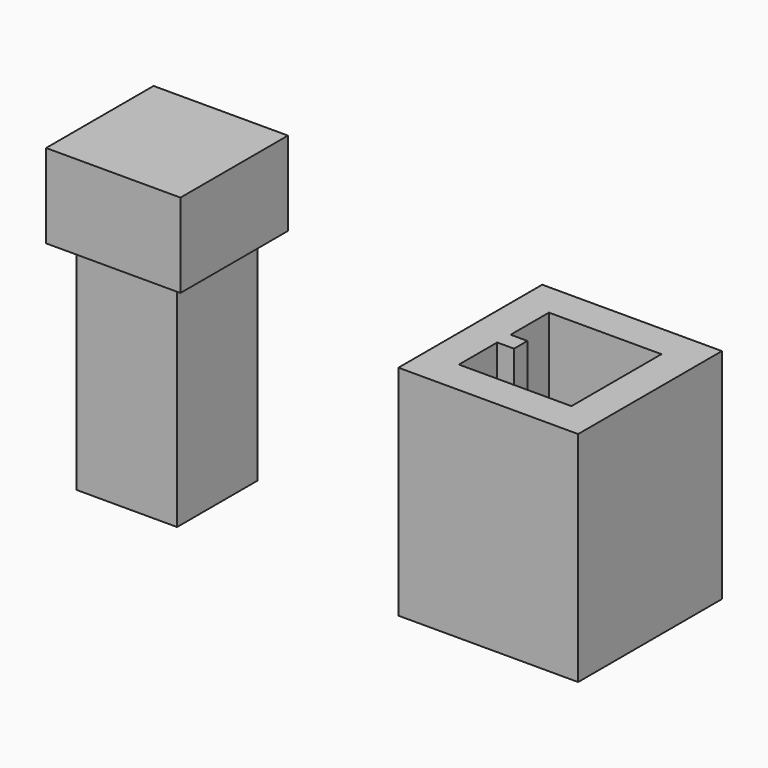
from build123d import *

# Parameters (mm, degrees)
F0_W      = 10.7
F0_H      = 10.7
F1_DEPTH  = 13
F2_T      = -2
F3_DEPTH  = 25
F4_W      = 6
F4_H      = 6
F5_DEPTH  = 13
F6_W      = 8
F6_H      = 8
F6_W_2    = 6
F6_H_2    = 6
F7_DEPTH  = 5
F8_DEPTH  = 5
F9_W      = 1
F9_H      = 13
F10_DEPTH = 1
F11_W     = 1
F11_H     = 7
F12_DEPTH = 1
F13_W     = 1.5
F13_H     = 13
F14_DEPTH = 1.5


with BuildPart() as f1:
    # F0 (on Top) → F1 (new body)
    with BuildSketch(Plane.XY):
        with Locations((-6.6214689702, 2.3361916789)):
            Rectangle(F0_W, F0_H)
    extrude(amount=F1_DEPTH)

    # F2
    f2_openings = [f1.faces().sort_by_distance(p)[0] for p in [
        (-6.621469, 2.336192, 13),
    ]]
    offset(amount=F2_T, openings=f2_openings)

    # F3 (cut): a face of the model
    f3_faces = [f1.faces().sort_by_distance(p)[0] for p in [
        (-6.6214689702, 2.3361916789, 2),
    ]]
    extrude(f3_faces, amount=-F3_DEPTH, mode=Mode.SUBTRACT)

    # F9 (on face) → F10 (join)
    with BuildSketch(Plane.YZ.offset(-9.9714689702)):
        with Locations((2.3361916789, 6.5)):
            Rectangle(F9_W, F9_H)
    extrude(amount=F10_DEPTH)

    # F11 (on face) → F12 (cut)
    with BuildSketch(Plane.YZ.offset(-8.9714689702)):
        with Locations((2.3361916789, 3.5)):
            Rectangle(F11_W, F11_H)
    extrude(amount=-F12_DEPTH, mode=Mode.SUBTRACT)


with BuildPart() as f5:
    # F4 (on Top) → F5 (new body)
    with BuildSketch(Plane.XY):
        with Locations((-28.5814577192, 0.5250083055)):
            Rectangle(F4_W, F4_H)
    extrude(amount=F5_DEPTH)

    # F6 (on face) → F7 (join)
    with BuildSketch(Plane.XY.offset(13)):
        with Locations((-28.5814577192, 0.5250083055)):
            Rectangle(F6_W, F6_H)
        with Locations((-28.5814577192, 0.5250083055)):
            Rectangle(F6_W_2, F6_H_2, mode=Mode.SUBTRACT)
    extrude(amount=F7_DEPTH)

    # F8 (add): a face of the model
    f8_faces = [f5.faces().sort_by_distance(p)[0] for p in [
        (-28.5814577192, 0.5250083055, 13),
    ]]
    extrude(f8_faces, amount=F8_DEPTH)

    # F13 (on face) → F14 (cut)
    with BuildSketch(Plane(origin=(-31.5814577192, 0, 0), x_dir=(0, -1, 0), z_dir=(-1, 0, 0))):
        with Locations((-0.5250083055, 6.5)):
            Rectangle(F13_W, F13_H)
    extrude(amount=-F14_DEPTH, mode=Mode.SUBTRACT)


solid = Compound([f1.part, f5.part])
